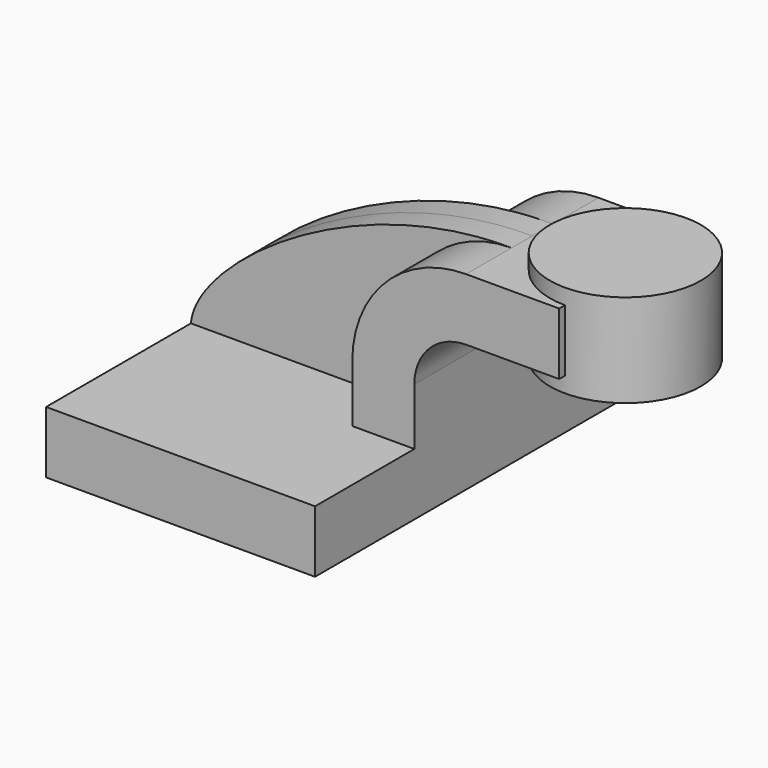
from build123d import *

# Parameters (mm, degrees)
F1_DEPTH = 63.5
F0_W     = 27.6187203676
F0_H     = 19.05
F2_DEPTH = 25.4
F3_DEPTH = 7.9375


with BuildPart() as f1:
    # F0 (on Front) → F1 (new body, symmetric)
    with BuildSketch(Plane.XZ):
        Polygon((-41.275, 9.525), (-41.275, -9.525), (41.275, -9.525), (41.275, 9.525), (22.225, 9.525), align=None)
    extrude(amount=F1_DEPTH, both=True)

    # F0 (on Front) → F2 (join, symmetric)
    with BuildSketch(Plane.XZ):
        with BuildLine():
            Line((22.225, 9.525), (41.275, 9.525))
            Line((41.275, 9.525), (41.275, 27.0002))
            ThreePointArc((41.275, 27.0002), (45.9246798487, 38.2255201513), (57.15, 42.8752))
            Line((57.15, 42.8752), (58.1062796324, 42.8752))
            Line((58.1062796324, 42.8752), (58.1062796324, 61.9252))
            Line((58.1062796324, 61.9252), (57.15, 61.9252))
            ThreePointArc((57.15, 61.9252), (32.4542956671, 51.6959043329), (22.225, 27.0002))
            Line((22.225, 27.0002), (22.225, 9.525))
        make_face()
        with Locations((71.9156398162, 52.4002)):
            Rectangle(F0_W, F0_H)
    extrude(amount=F2_DEPTH, both=True)

    # F0 (on Front) → F3 (join, symmetric)
    with BuildSketch(Plane.XZ):
        with BuildLine():
            add(Edge.make_bspline(
                [(-41.275, 9.525), (-39.7970601916, 27.7465097606), (7.8009576537, 62.4250620604), (57.15, 61.9252)],
                knots=[0, 0, 0, 0, 111.5045361635, 111.5045361635, 111.5045361635, 111.5045361635], degree=3))
            Line((-41.275, 9.525), (22.225, 9.525))
            Line((22.225, 9.525), (22.225, 27.0002))
            ThreePointArc((22.225, 27.0002), (32.4542956671, 51.6959043329), (57.15, 61.9252))
        make_face()
    extrude(amount=F3_DEPTH, both=True)

    # F0 (on Front) → F4 (revolve)
    with BuildSketch(Plane.XZ):
        Polygon((85.725, 66.675), (85.725, 61.9252), (85.725, 42.8752), (85.725, 38.1), (108.9062796324, 38.1), (108.9062796324, 66.675), align=None)
    revolve(axis=Axis((85.725, 0, 52.4002), (0, 0, 1)))


solid = f1.part
